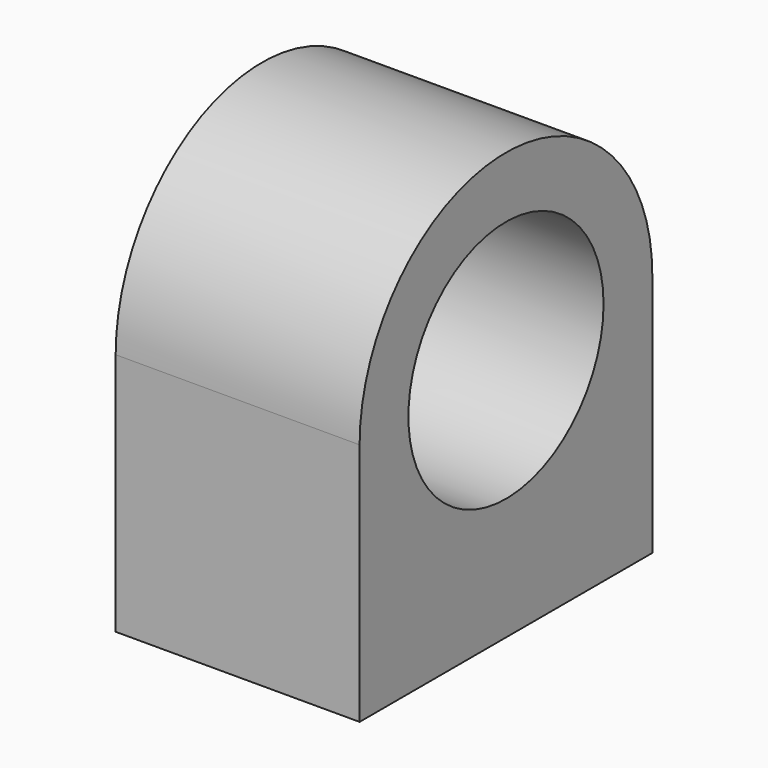
from build123d import *

# Parameters (mm, degrees)
F0_R     = 5
F1_DEPTH = 5
F2_R     = 1.25
F3_DEPTH = 5


with BuildPart() as f1:
    # F0 (on Right) → F1 (new body, symmetric)
    with BuildSketch(Plane.YZ):
        with BuildLine():
            Line((7.5, -10), (7.5, 0))
            ThreePointArc((7.5, 0), (0, 7.5), (-7.5, 0))
            Line((-7.5, 0), (-7.5, -10))
            Line((-7.5, -10), (7.5, -10))
        make_face()
        Circle(F0_R, mode=Mode.SUBTRACT)
    extrude(amount=F1_DEPTH, both=True)

    # F2 (on face) → F3 (cut)
    with BuildSketch(Plane(origin=(0, 0, -10), x_dir=(1, 0, 0), z_dir=(0, 0, -1))):
        with Locations((0, -5)):
            Circle(F2_R)
        with Locations((0, 5)):
            Circle(F2_R)
    extrude(amount=-F3_DEPTH, mode=Mode.SUBTRACT)


solid = f1.part
